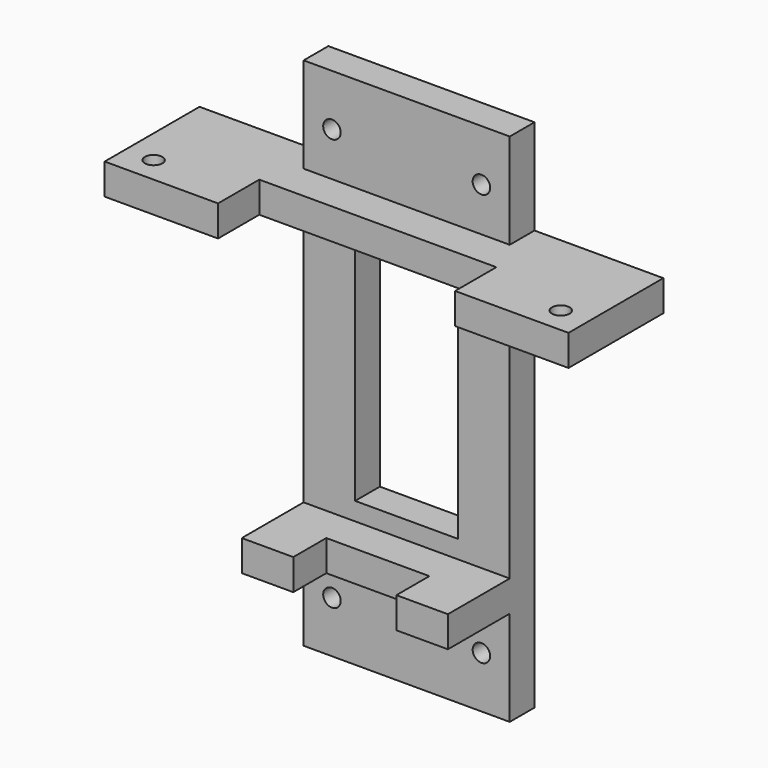
from build123d import *

# Parameters (mm, degrees)
BOX028_W          = 20
BOX028_H          = 20
BOX028_DEPTH      = 45
BOX029_W          = 20
BOX029_H          = 20
BOX029_DEPTH      = 45
BOX030_W          = 46
BOX030_H          = 20
BOX030_DEPTH      = 45
CYLINDER030_R     = 1.7
CYLINDER030_DEPTH = 50
CYLINDER031_R     = 1.7
CYLINDER031_DEPTH = 50
CYLINDER032_R     = 1.7
CYLINDER032_DEPTH = 50
CYLINDER033_R     = 1.7
CYLINDER033_DEPTH = 50
CYLINDER034_R     = 1.7
CYLINDER034_DEPTH = 50
CYLINDER035_R     = 1.7
CYLINDER035_DEPTH = 50
BOX026_W          = 90
BOX026_H          = 23
BOX026_DEPTH      = 6
BOX025_W          = 40
BOX025_H          = 6
BOX025_DEPTH      = 100
BOX027_W          = 40
BOX027_H          = 15
BOX027_DEPTH      = 6


with BuildPart() as cube025:
    # Box028 → Box028 (new body)
    with BuildSketch(Plane(origin=(-10, -51, 38), x_dir=(1, 0, 0), z_dir=(0, 0, 1))):
        with Locations((10, 10)):
            Rectangle(BOX028_W, BOX028_H)
    extrude(amount=BOX028_DEPTH)


with BuildPart() as cube026:
    # Box029 → Box029 (new body)
    with BuildSketch(Plane(origin=(-10, -68, 20), x_dir=(1, 0, 0), z_dir=(0, 0, 1))):
        with Locations((10, 10)):
            Rectangle(BOX029_W, BOX029_H)
    extrude(amount=BOX029_DEPTH)


with BuildPart() as cube027:
    # Box030 → Box030 (new body)
    with BuildSketch(Plane(origin=(-23, -68, 56), x_dir=(1, 0, 0), z_dir=(0, 0, 1))):
        with Locations((23, 10)):
            Rectangle(BOX030_W, BOX030_H)
    extrude(amount=BOX030_DEPTH)


with BuildPart() as mounting_hole:
    # Cylinder030 → Cylinder030 (new body)
    with BuildSketch(Plane(origin=(-14.5, 0, 20), x_dir=(1, 0, 0), z_dir=(0, -1, 0))):
        Circle(CYLINDER030_R)
    extrude(amount=CYLINDER030_DEPTH)


with BuildPart() as mounting_hole001:
    # Cylinder031 → Cylinder031 (new body)
    with BuildSketch(Plane(origin=(14.5, 0, 20), x_dir=(1, 0, 0), z_dir=(0, -1, 0))):
        Circle(CYLINDER031_R)
    extrude(amount=CYLINDER031_DEPTH)


with BuildPart() as mounting_hole002:
    # Cylinder032 → Cylinder032 (new body)
    with BuildSketch(Plane(origin=(-14.5, 0, 100), x_dir=(1, 0, 0), z_dir=(0, -1, 0))):
        Circle(CYLINDER032_R)
    extrude(amount=CYLINDER032_DEPTH)


with BuildPart() as mounting_hole003:
    # Cylinder033 → Cylinder033 (new body)
    with BuildSketch(Plane(origin=(14.5, 0, 100), x_dir=(1, 0, 0), z_dir=(0, -1, 0))):
        Circle(CYLINDER033_R)
    extrude(amount=CYLINDER033_DEPTH)


with BuildPart() as mounting_hole004:
    # Cylinder034 → Cylinder034 (new body)
    with BuildSketch(Plane(origin=(-39.5, -53, 58), x_dir=(1, 0, 0), z_dir=(0, 0, 1))):
        Circle(CYLINDER034_R)
    extrude(amount=CYLINDER034_DEPTH)


with BuildPart() as mounting_hole005:
    # Cylinder035 → Cylinder035 (new body)
    with BuildSketch(Plane(origin=(39.5, -53, 58), x_dir=(1, 0, 0), z_dir=(0, 0, 1))):
        Circle(CYLINDER035_R)
    extrude(amount=CYLINDER035_DEPTH)


with BuildPart() as cube023:
    # Box026 → Box026 (new body)
    with BuildSketch(Plane(origin=(-45, -58, 85.5), x_dir=(1, 0, 0), z_dir=(0, 0, 1))):
        with Locations((45, 11.5)):
            Rectangle(BOX026_W, BOX026_H)
    extrude(amount=BOX026_DEPTH)


with BuildPart() as fusion024:
    # Box025 → Box025 (new body)
    with BuildSketch(Plane(origin=(-20, -41, 10), x_dir=(1, 0, 0), z_dir=(0, 0, 1))):
        with Locations((20, 3)):
            Rectangle(BOX025_W, BOX025_H)
    extrude(amount=BOX025_DEPTH)

    # Fusion024: union Cube023
    add(cube023.part)


with BuildPart() as paste_extruder_psu_mounting_bracket:
    # Box027 → Box027 (new body)
    with BuildSketch(Plane(origin=(-20, -56, 28.5), x_dir=(1, 0, 0), z_dir=(0, 0, 1))):
        with Locations((20, 7.5)):
            Rectangle(BOX027_W, BOX027_H)
    extrude(amount=BOX027_DEPTH)

    # Fusion025: union Fusion024
    add(fusion024.part)

    # Cut035: cut mounting hole005
    add(mounting_hole005.part, mode=Mode.SUBTRACT)

    # Cut036: cut mounting hole004
    add(mounting_hole004.part, mode=Mode.SUBTRACT)

    # Cut037: cut mounting hole003
    add(mounting_hole003.part, mode=Mode.SUBTRACT)

    # Cut038: cut mounting hole002
    add(mounting_hole002.part, mode=Mode.SUBTRACT)

    # Cut039: cut mounting hole001
    add(mounting_hole001.part, mode=Mode.SUBTRACT)

    # Cut040: cut mounting hole
    add(mounting_hole.part, mode=Mode.SUBTRACT)

    # Cut041: cut Cube027
    add(cube027.part, mode=Mode.SUBTRACT)

    # Cut042: cut Cube026
    add(cube026.part, mode=Mode.SUBTRACT)

    # Cut043: cut Cube025
    add(cube025.part, mode=Mode.SUBTRACT)


with BuildPart() as paste_extruder_psu_mounting_bracket_1:
    # Cut043 placement: moved
    add(paste_extruder_psu_mounting_bracket.part.moved(Location((0, -2, 0))))


solid = paste_extruder_psu_mounting_bracket_1.part
